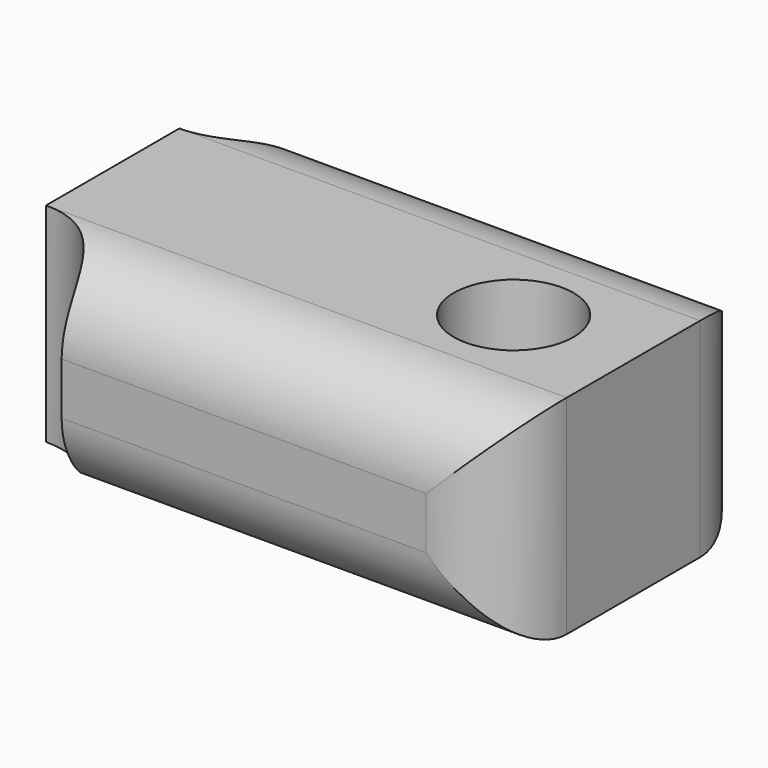
from build123d import *

# Parameters (mm, degrees)
F0_R     = 1.15
F1_DEPTH = 4
F2_R     = 1.5
F3_DEPTH = 5
F4_R     = 1.5


with BuildPart() as f1:
    # F0 (on Top) → F1 (new body)
    with BuildSketch(Plane.XY):
        with BuildLine():
            Line((5, 3.1), (-3.5, 3.1))
            ThreePointArc((-3.5, 3.1), (-3.93934, 2.03934), (-5, 1.6))
            Line((-5, 1.6), (-5, -1.6))
            ThreePointArc((-5, -1.6), (-3.93934, -2.03934), (-3.5, -3.1))
            Line((-3.5, -3.1), (5, -3.1))
            Line((5, -3.1), (5, 3.1))
        make_face()
        with Locations((2.7, 0)):
            Circle(F0_R, mode=Mode.SUBTRACT)
    extrude(amount=F1_DEPTH)

    # F2 (on face) → F3 (cut)
    with BuildSketch(Plane(origin=(-5, 0, 0), x_dir=(0, -1, 0), z_dir=(-1, 0, 0))):
        with Locations((0, 2)):
            Circle(F2_R)
    extrude(amount=-F3_DEPTH, mode=Mode.SUBTRACT)

    # F4
    f4_edges = [f1.edges().sort_by_distance(p)[0] for p in [
        (0.75, -3.1, 4),
        (0.75, 3.1, 4),
        (5, 3.1, 2),
        (5, -3.1, 2),
        (0.75, 3.1, 0),
        (0.75, -3.1, 0),
    ]]
    fillet(f4_edges, radius=F4_R)


solid = f1.part
